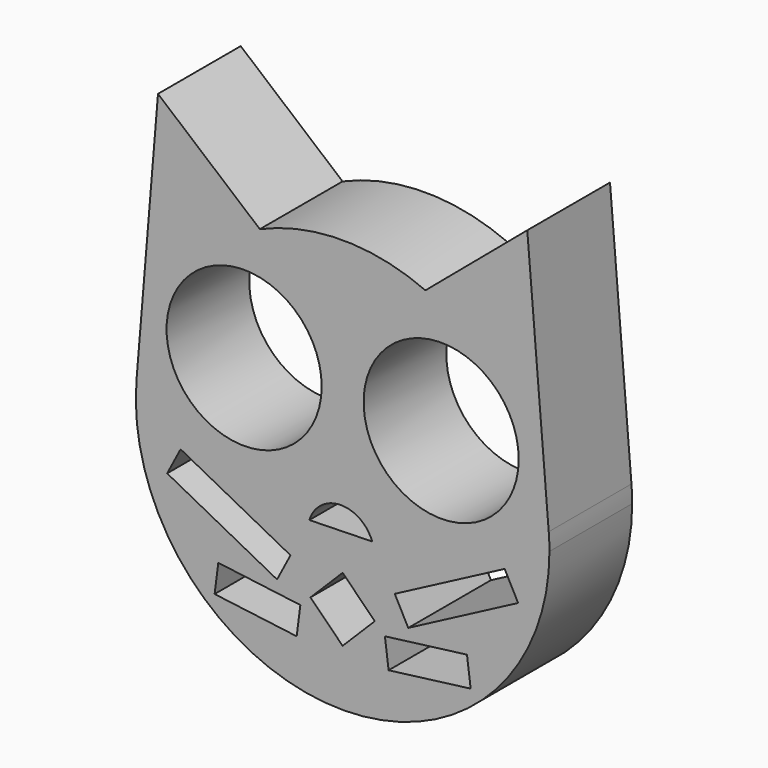
from build123d import *

# Parameters (mm, degrees)
F0_R     = 4.7625
F1_DEPTH = 6.35


with BuildPart() as f1:
    # F0 (on Front) → F1 (new body)
    with BuildSketch(Plane.XZ):
        with BuildLine():
            ThreePointArc((-12.656418, 1.051226), (-0.526064, -12.6891), (12.7, 0))
            ThreePointArc((12.7, 0), (12.6891, 0.526064), (12.656418, 1.051226))
            ThreePointArc((12.656418, 1.051226), (10.329613, 7.388443), (5.084057, 11.637971))
            ThreePointArc((5.084057, 11.637971), (0, 12.7), (-5.084057, 11.637971))
            ThreePointArc((-5.084057, 11.637971), (-10.329613, 7.388443), (-12.656418, 1.051226))
        make_face()
        Polygon((-7.636001, -7.227693), (-2.597121, -7.872743), (-2.822888, -9.636351), (-7.861768, -8.991301), align=None, mode=Mode.SUBTRACT)
        Polygon((-1.975656, -7.259335), (0, -5.283679), (1.975656, -7.259335), (0, -9.234992), align=None, mode=Mode.SUBTRACT)
        Polygon((-3.202146, -5.380574), (-4.028434, -6.95491), (-10.775585, -3.413675), (-9.949297, -1.839339), align=None, mode=Mode.SUBTRACT)
        with BuildLine():
            ThreePointArc((-2.042236, -3.09876), (-0.147928, -1.658663), (1.814616, -3.004286))
            Line((1.814616, -3.004286), (-2.042236, -3.09876))
        make_face(mode=Mode.SUBTRACT)
        Polygon((2.822888, -9.636351), (2.597121, -7.872743), (7.636001, -7.227693), (7.861768, -8.991301), align=None, mode=Mode.SUBTRACT)
        Polygon((10.775585, -3.413675), (4.028434, -6.95491), (3.202146, -5.380574), (9.949297, -1.839339), align=None, mode=Mode.SUBTRACT)
        with Locations((-6.050281, 4.36754)):
            Circle(F0_R, mode=Mode.SUBTRACT)
        with Locations((6.050281, 4.36754)):
            Circle(F0_R, mode=Mode.SUBTRACT)
        with BuildLine():
            ThreePointArc((5.084057, 11.637971), (10.329613, 7.388443), (12.656418, 1.051226))
            Line((12.656418, 1.051226), (11.338378, 16.919998))
            Line((11.338378, 16.919998), (5.084057, 11.637971))
        make_face()
        with BuildLine():
            Line((-11.338378, 16.919998), (-12.656418, 1.051226))
            ThreePointArc((-12.656418, 1.051226), (-10.329613, 7.388443), (-5.084057, 11.637971))
            Line((-5.084057, 11.637971), (-11.338378, 16.919998))
        make_face()
    extrude(amount=F1_DEPTH)


solid = f1.part
